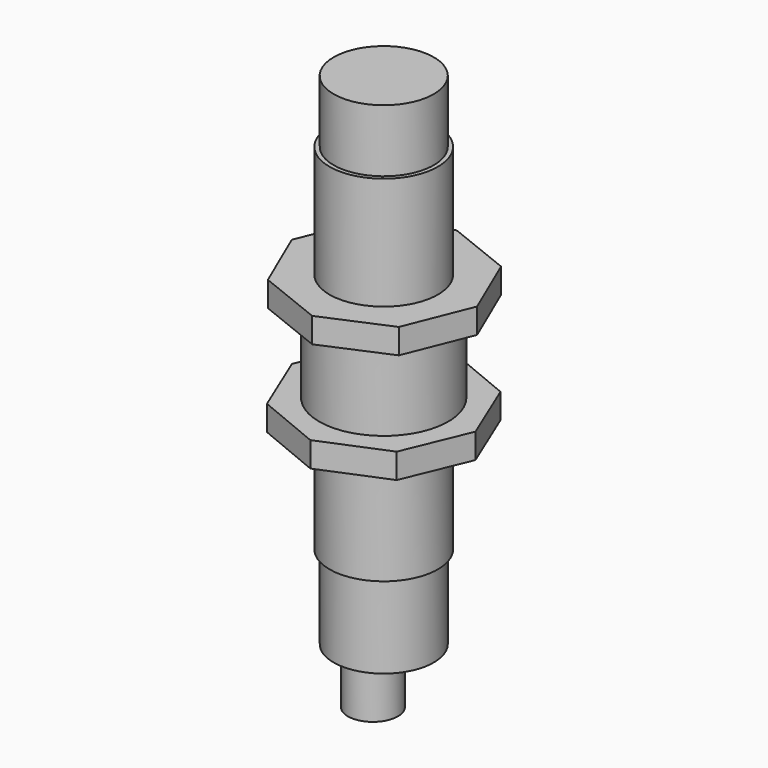
from build123d import *

# Parameters (mm, degrees)
SKETCH014_R             = 6
PAD012_DEPTH            = 7.5
SKETCH015_R             = 6.5
PAD013_DEPTH            = 42.5
SKETCH016_R             = 6
PAD014_DEPTH            = 10
SKETCH017_R             = 3
PAD015_DEPTH            = 6
SKETCH018_R             = 1
PAD016_DEPTH            = 1
PAD017_DEPTH            = 3
SKETCH020_R             = 7.741832
PAD018_DEPTH            = 10
PAD019_DEPTH            = 3
BODY003_PLACEMENT_ANGLE = 180


with BuildPart() as part:
    # Sketch014 → Pad012 (new body)
    with BuildSketch(Plane.XY):
        Circle(SKETCH014_R)
    extrude(amount=PAD012_DEPTH)

    # Sketch015 (on Face3 of Pad012) → Pad013 (join)
    with BuildSketch(Plane.XY.offset(7.5)):
        Circle(SKETCH015_R)
    extrude(amount=PAD013_DEPTH)

    # Sketch016 (on Face5 of Pad013) → Pad014 (join)
    with BuildSketch(Plane.XY.offset(50)):
        Circle(SKETCH016_R)
    extrude(amount=PAD014_DEPTH)

    # Sketch017 (on Face7 of Pad014) → Pad015 (join)
    with BuildSketch(Plane.XY.offset(60)):
        with Locations((0, -1.61854)):
            Circle(SKETCH017_R)
    extrude(amount=PAD015_DEPTH)

    # Sketch018 (on Face7 of Pad015) → Pad016 (join)
    with BuildSketch(Plane.XY.offset(60)):
        with Locations((0, 4.042031)):
            Circle(SKETCH018_R)
    extrude(amount=PAD016_DEPTH)

    # Sketch019 (on Face2 of Pad016) → Pad017 (join)
    with BuildSketch(Plane(origin=(0, 0, 24), x_dir=(1, 0, 0), z_dir=(0, 0, -1))):
        Polygon((0, 10.722278), (-7.738631, 7.406596), (-10.866129, -0.409983), (-7.550447, -8.148615), (0.266132, -11.276112), (8.004764, -7.960431), (11.132261, -0.143851), (7.81658, 7.59478), align=None)
    extrude(amount=PAD017_DEPTH)

    # Sketch020 (on Face14 of Pad017) → Pad018 (join)
    with BuildSketch(Plane.XY.offset(24)):
        Circle(SKETCH020_R)
    extrude(amount=PAD018_DEPTH)

    # Sketch021 (on Face16 of Pad018) → Pad019 (join)
    with BuildSketch(Plane.XY.offset(34)):
        Polygon((0, 11), (-7.778175, 7.778175), (-11, 0), (-7.778175, -7.778175), (0, -11), (7.778175, -7.778175), (11, 0), (7.778175, 7.778175), align=None)
    extrude(amount=PAD019_DEPTH)


with BuildPart() as part_1:
    # Body003 placement: moved
    add(part.part.moved(Location((-28, -25, 88))).rotate(Axis((-28, -25, 88), (0, 1, 0)), BODY003_PLACEMENT_ANGLE))


solid = part_1.part
